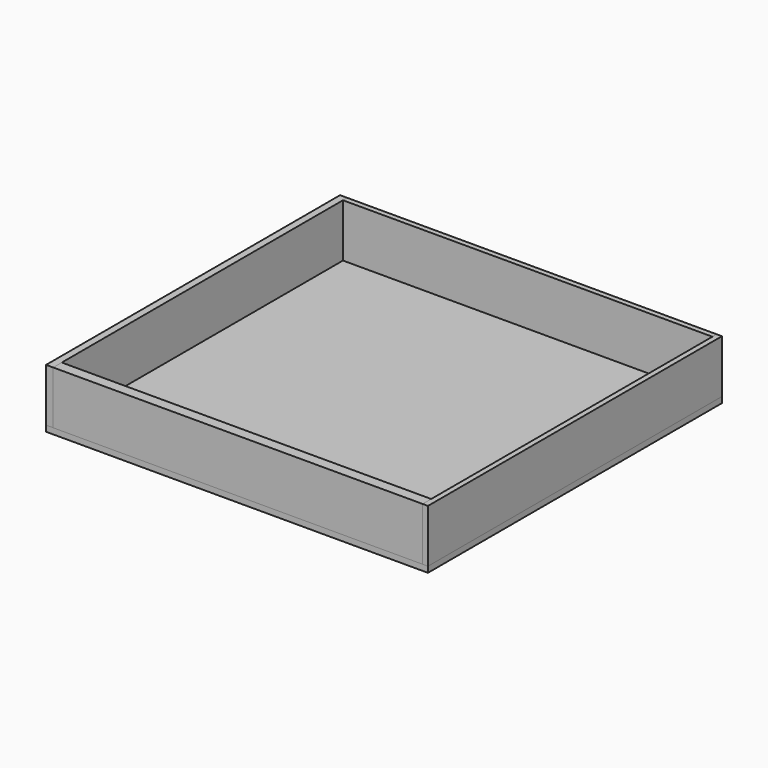
from build123d import *

# Parameters (mm, degrees)
F0_W      = 182.690583
F0_H      = 175.820373
F1_DEPTH  = 2.794
F2_W      = 2.54
F2_H      = 175.820373
F3_DEPTH  = 25.4
F4_W      = 3.41443
F4_H      = 175.820373
F5_DEPTH  = 25.4
F7_W      = 176.736153
F7_H      = 5.133778
F8_DEPTH  = 25.4
F9_W      = 176.736153
F9_H      = 2.54
F10_DEPTH = 25.4


with BuildPart() as f1:
    # F0 (on Top) → F1 (new body)
    with BuildSketch(Plane.XY):
        with Locations((-21.265443, -48.797674)):
            Rectangle(F0_W, F0_H)
    extrude(amount=F1_DEPTH)


with BuildPart() as f3:
    # F2 (on face) → F3 (new body)
    with BuildSketch(Plane.XY.offset(2.794)):
        with Locations((68.809848, -48.797674)):
            Rectangle(F2_W, F2_H)
    extrude(amount=F3_DEPTH)


with BuildPart() as f5:
    # F4 (on face) → F5 (new body)
    with BuildSketch(Plane.XY.offset(2.794)):
        with Locations((-110.90352, -48.797674)):
            Rectangle(F4_W, F4_H)
    extrude(amount=F5_DEPTH)


with BuildPart() as f8:
    # F7 (on face) → F8 (new body)
    with BuildSketch(Plane.XY.offset(2.794)):
        with Locations((-20.828229, -134.140972)):
            Rectangle(F7_W, F7_H)
    extrude(amount=F8_DEPTH)


with BuildPart() as f10:
    # F9 (on face) → F10 (new body)
    with BuildSketch(Plane.XY.offset(2.794)):
        with Locations((-20.828229, 37.842512)):
            Rectangle(F9_W, F9_H)
    extrude(amount=F10_DEPTH)


solid = Compound([f1.part, f3.part, f5.part, f8.part, f10.part])
